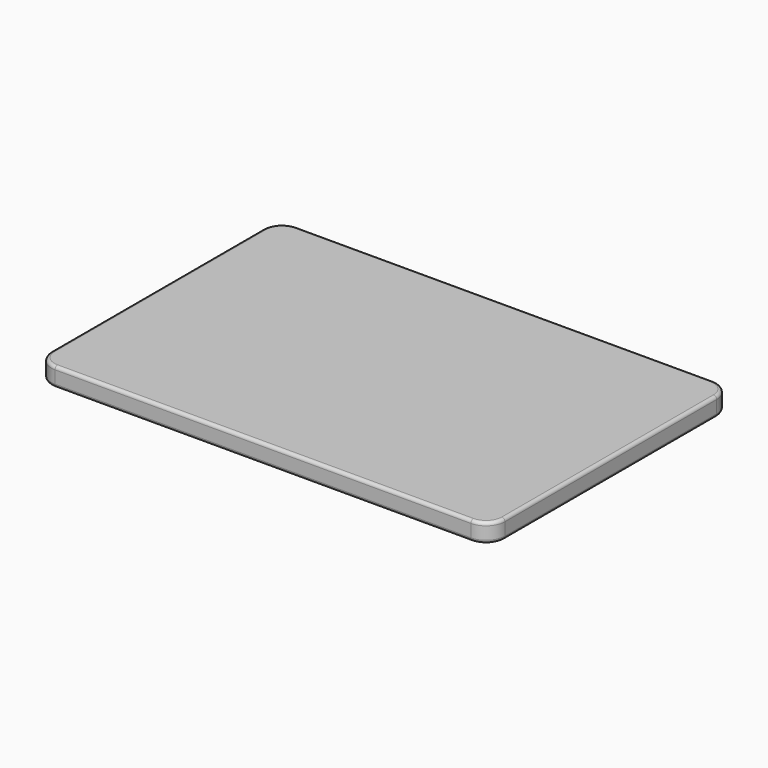
from build123d import *

# Parameters (mm, degrees)
F0_W     = 457.2
F0_H     = 304.8
F1_DEPTH = 9.525
F2_R     = 19.05
F3_R     = 3.175


with BuildPart() as f1:
    # F0 (on Top) → F1 (new body, symmetric)
    with BuildSketch(Plane.XY):
        Rectangle(F0_W, F0_H)
    extrude(amount=F1_DEPTH, both=True)

    # F2
    f2_edges = [f1.edges().sort_by_distance(p)[0] for p in [
        (-228.6, -152.4, 0),
        (228.6, -152.4, 0),
        (228.6, 152.4, 0),
        (-228.6, 152.4, 0),
    ]]
    fillet(f2_edges, radius=F2_R)

    # F3
    f3_edges = [f1.edges().sort_by_distance(p)[0] for p in [
        (228.6, 0, 9.525),
        (223.020384, -146.820384, 9.525),
        (223.020384, 146.820384, 9.525),
        (0, -152.4, 9.525),
        (0, 152.4, 9.525),
        (-223.020384, -146.820384, 9.525),
        (-223.020384, 146.820384, 9.525),
        (-228.6, 0, 9.525),
        (228.6, 0, -9.525),
        (223.020384, -146.820384, -9.525),
        (223.020384, 146.820384, -9.525),
        (0, -152.4, -9.525),
        (0, 152.4, -9.525),
        (-223.020384, -146.820384, -9.525),
        (-223.020384, 146.820384, -9.525),
        (-228.6, 0, -9.525),
    ]]
    fillet(f3_edges, radius=F3_R)


solid = f1.part
